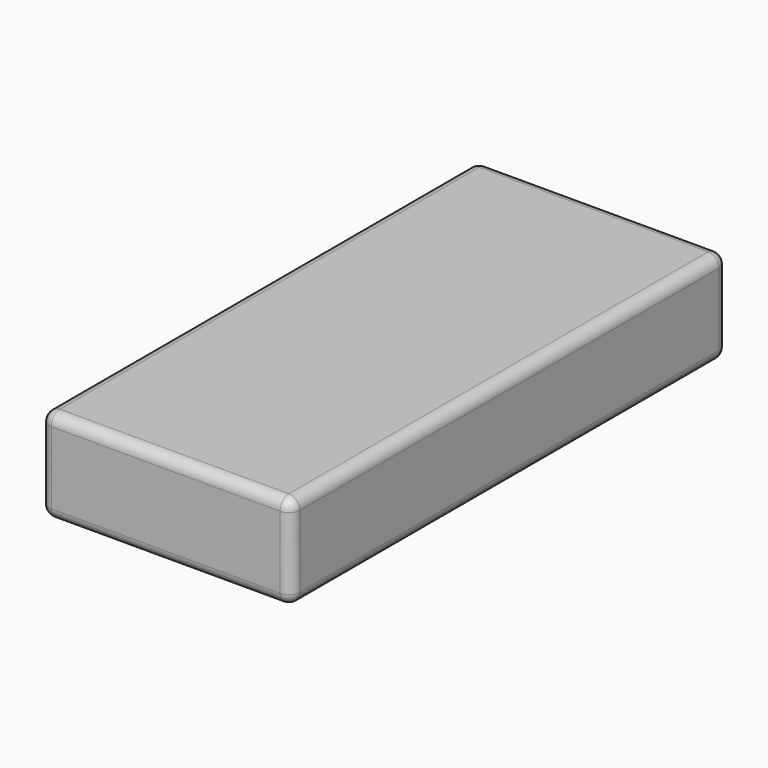
from build123d import *

# Parameters (mm, degrees)
F0_W     = 116.680204
F0_H     = 43.802262
F1_DEPTH = 254
F2_R     = 5.08


with BuildPart() as f1:
    # F0 (on Front) → F1 (new body)
    with BuildSketch(Plane.XZ):
        Rectangle(F0_W, F0_H)
    extrude(amount=-F1_DEPTH)

    # F2
    f2_edges = [f1.edges().sort_by_distance(p)[0] for p in [
        (-58.340102, 127, 21.901131),
        (-58.340102, 127, -21.901131),
        (-58.340102, 0, 0),
        (-58.340102, 254, 0),
        (0, 0, -21.901131),
        (58.340102, 0, 0),
        (0, 0, 21.901131),
        (58.340102, 127, -21.901131),
        (58.340102, 127, 21.901131),
        (58.340102, 254, 0),
        (0, 254, -21.901131),
        (0, 254, 21.901131),
    ]]
    fillet(f2_edges, radius=F2_R)


solid = f1.part
